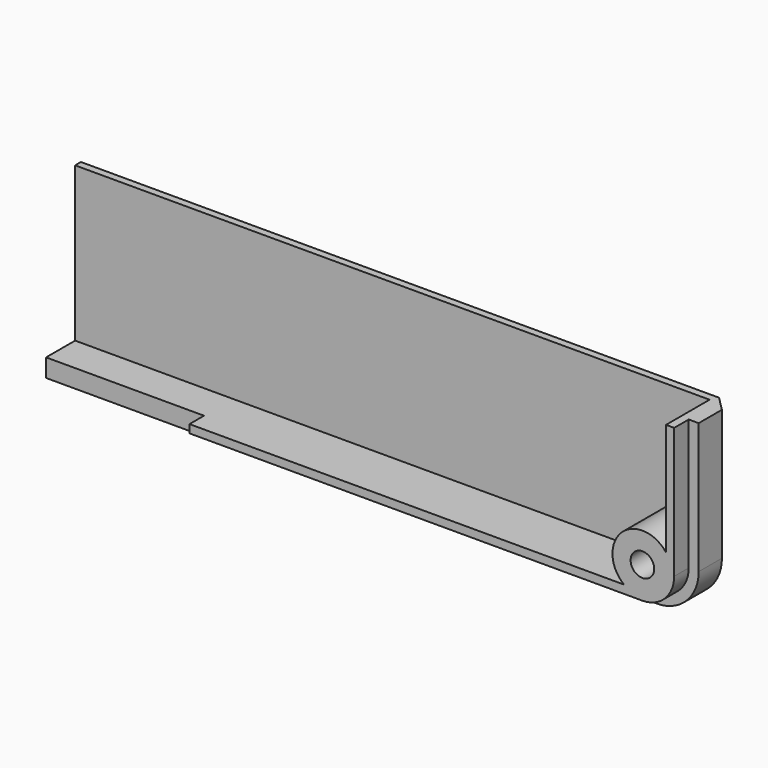
from build123d import *

# Parameters (mm, degrees)
SKETCH005_R      = 1.3
EXTRUDE003_DEPTH = 20
EXTRUDE039_DEPTH = 4
EXTRUDE042_DEPTH = 0.8
EXTRUDE002_DEPTH = 6
EXTRUDE037_DEPTH = 2


with BuildPart() as sweep001:
    # Sweep001: sweep along a path in Sketch034
    with BuildLine(Plane.XZ.offset(10)) as sweep001_path:
        Line((32, 12), (32, 26.4))
        ThreePointArc((32, 26.4), (30.652691, 29.652691), (27.4, 31))
        Line((27.4, 31), (-39.9, 31))
    # Sketch035 → Sweep001 (sweep)
    with BuildSketch(Plane.YZ):
        Polygon((5.3, 29.4), (3.7, 31), (3.7, 32), (6, 32), (6, 29.4), align=None)
    sweep(path=sweep001_path.line)


with BuildPart() as fusion030:
    # Sketch005 → Extrude003 (new body)
    with BuildSketch(Plane.XZ.offset(5)):
        with Locations((27.4, 26.4)):
            Circle(SKETCH005_R)
    extrude(amount=-EXTRUDE003_DEPTH)


with BuildPart() as fusion030_1:
    # Extrude003 placement: moved
    add(fusion030.part.moved(Location((0, -4, 0))))

    # Fusion030: union Sweep001
    add(sweep001.part)


with BuildPart() as top003:
    # Sketch028 → Extrude039 (new body)
    with BuildSketch(Plane.XZ.offset(10)):
        with BuildLine():
            ThreePointArc((32, 26.4), (30.652691, 29.652691), (27.4, 31))
            Line((27.4, 31), (-39.9, 31))
            Line((-39.9, 31), (-39.9, 29))
            Line((-39.9, 29), (27.4, 29))
            ThreePointArc((30, 26.4), (29.238478, 28.238478), (27.4, 29))
            Line((30, 12), (30, 26.4))
            Line((32, 12), (30, 12))
            Line((32, 26.4), (32, 12))
        make_face()
    extrude(amount=EXTRUDE039_DEPTH)


with BuildPart() as top003_1:
    # Extrude039 placement: moved
    add(top003.part.moved(Location((0, 14.5, 0))))


with BuildPart() as top002:
    # Sketch031 → Extrude042 (new body)
    with BuildSketch(Plane.XZ.offset(10)):
        with BuildLine():
            ThreePointArc((32, 26.4), (30.652691, 29.652691), (27.4, 31))
            Line((27.4, 31), (-39.9, 31))
            Line((-39.9, 31), (-39.9, 12))
            Line((-39.9, 12), (32, 12))
            Line((32, 26.4), (32, 12))
        make_face()
    extrude(amount=EXTRUDE042_DEPTH)


with BuildPart() as top002_1:
    # Extrude042 placement: moved
    add(top002.part.moved(Location((0, 15.3, 0))))


with BuildPart() as screw_hole_top:
    # Sketch004 → Extrude002 (new body)
    with BuildSketch(Plane.XZ.offset(10)):
        with BuildLine():
            ThreePointArc((25.36776, 29), (25.066548, 24.066548), (30, 24.36776))
            Line((30, 24.36776), (30, 26.4))
            ThreePointArc((30, 26.4), (29.238478, 28.238478), (27.4, 29))
            Line((25.36776, 29), (27.4, 29))
        make_face()
    extrude(amount=-EXTRUDE002_DEPTH)


with BuildPart() as screw_hole_top_1:
    # Extrude002 placement: moved
    add(screw_hole_top.part.moved(Location((0, 8.5, 0))))


with BuildPart() as top:
    # Sketch029 → Extrude037 (new body)
    with BuildSketch(Plane.XZ.offset(10)):
        with BuildLine():
            ThreePointArc((30.9, 26.4), (29.874874, 28.874874), (27.4, 29.9))
            Line((27.4, 29.9), (-22.5, 29.9))
            Line((-22.5, 29.9), (-22.5, 29))
            Line((-22.5, 29), (27.4, 29))
            ThreePointArc((30, 26.4), (29.238478, 28.238478), (27.4, 29))
            Line((30, 12), (30, 26.4))
            Line((30.9, 12), (30, 12))
            Line((30.9, 26.4), (30.9, 12))
        make_face()
    extrude(amount=EXTRUDE037_DEPTH)


with BuildPart() as top_1:
    # Extrude037 placement: moved
    add(top.part.moved(Location((0, 10.5, 0))))

    # Fusion028: union top003, top002, screw hole top
    add(top003_1.part)
    add(top002_1.part)
    add(screw_hole_top_1.part)

    # Cut024: cut Fusion030
    add(fusion030_1.part, mode=Mode.SUBTRACT)


with BuildPart() as part_mirroring001:
    # Part__Mirroring001: instance of top
    add(top_1.part.mirror(Plane(origin=(0, 0, 0), x_dir=(0, 1, 0), z_dir=(0, 0, 1))))


solid = part_mirroring001.part
